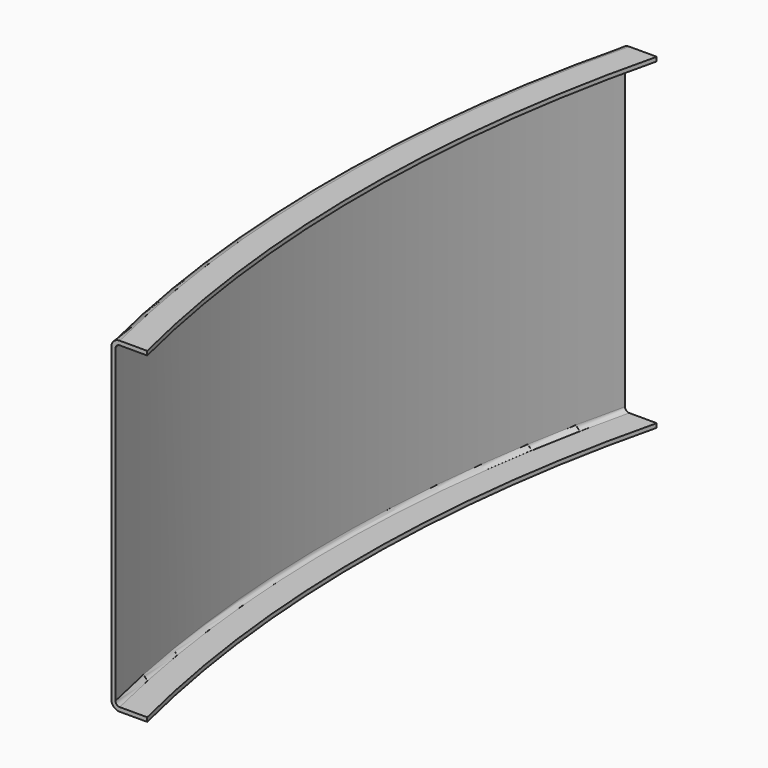
from build123d import *

# Parameters (mm, degrees)
F3_W     = 310
F3_H     = 1324
F4_DEPTH = 100
F5_W     = 1324
F5_H     = 488.598477
F6_DEPTH = 100


with BuildPart() as f2:
    # F2: sweep along a path in F1
    with BuildLine(Plane.XY) as f2_path:
        ThreePointArc((0, 660), (-660, 0), (0, -660))
    # F0 (on Right) → F2 (sweep)
    with BuildSketch(Plane.YZ):
        with BuildLine():
            Line((-658, 77.5), (-645, 77.5))
            Line((-645, 77.5), (-645, 79.5))
            Line((-645, 79.5), (-658, 79.5))
            ThreePointArc((-658, 79.5), (-660.828427, 78.328427), (-662, 75.5))
            Line((-662, 75.5), (-662, -75.5))
            ThreePointArc((-662, -75.5), (-660.828427, -78.328427), (-658, -79.5))
            Line((-658, -79.5), (-645, -79.5))
            Line((-645, -79.5), (-645, -77.5))
            Line((-645, -77.5), (-658, -77.5))
            ThreePointArc((-658, -77.5), (-659.414214, -76.914214), (-660, -75.5))
            Line((-660, -75.5), (-660, 75.5))
            ThreePointArc((-660, 75.5), (-659.414214, 76.914214), (-658, 77.5))
        make_face()
    sweep(path=f2_path.line)

    # F3 (on Top) → F4 (cut, symmetric)
    with BuildSketch(Plane.XY):
        Rectangle(F3_W, F3_H)
    extrude(amount=F4_DEPTH, both=True, mode=Mode.SUBTRACT)

    # F5 (on Top) → F6 (cut, symmetric)
    with BuildSketch(Plane.XY):
        with Locations((0, 399.299239)):
            Rectangle(F5_W, F5_H)
        with Locations((0, -399.299239)):
            Rectangle(F5_W, F5_H)
    extrude(amount=F6_DEPTH, both=True, mode=Mode.SUBTRACT)


solid = f2.part
